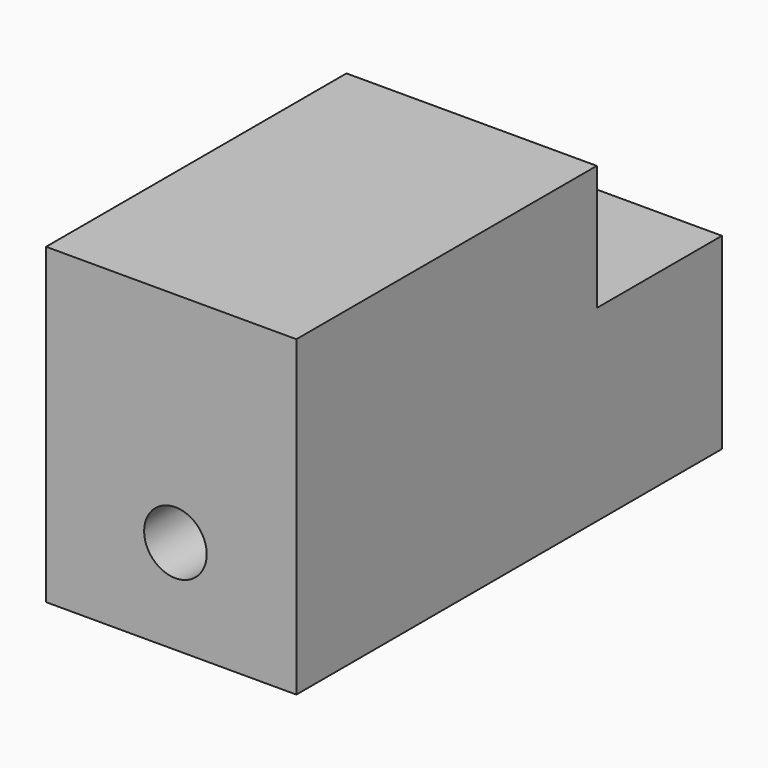
from build123d import *

# Parameters (mm, degrees)
F0_W     = 101.6
F0_H     = 152.4
F1_DEPTH = 127
F4_W     = 101.6
F4_H     = 76.2
F5_DEPTH = 63.5
F6_D     = 25.4


with BuildPart() as f1:
    # F0 (on Top) → F1 (new body)
    with BuildSketch(Plane.XY):
        with Locations((-6.65934, 45.666524)):
            Rectangle(F0_W, F0_H)
    extrude(amount=F1_DEPTH)

    # F4 (on face) → F5 (join)
    with BuildSketch(Plane(origin=(0, 121.866524, 0), x_dir=(-1, 0, 0), z_dir=(0, 1, 0))):
        with Locations((6.65934, 38.1)):
            Rectangle(F4_W, F4_H)
    extrude(amount=F5_DEPTH)

    # F6 (through all)
    with Locations(Plane.XZ.offset(30.533476)):
        with Locations((-4.961859, 38.326953)):
            Hole(F6_D / 2)


solid = f1.part
